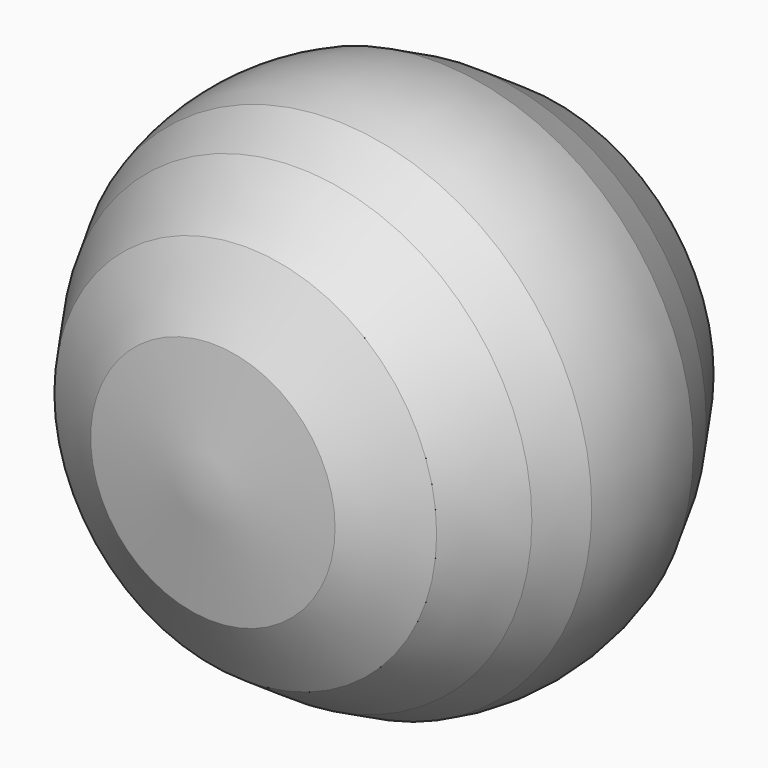
from build123d import *


with BuildPart() as f1:
    # F0 (on Top) → F1 (revolve)
    with BuildSketch(Plane.XY):
        Polygon((16.912684, 29.597197), (0, 31.75), (0, 0), (35.776827, 0), (35.776827, 8.781586), (32.524388, 15.069634), (26.453173, 23.959635), align=None)
        Polygon((35.776827, 0), (0, 0), (0, -31.75), (16.912684, -29.597197), (26.453173, -23.959635), (32.524388, -15.069634), (35.776827, -8.781586), align=None)
        with BuildLine():
            Line((35.776827, 8.781586), (35.776827, 0))
            Line((35.776827, 0), (35.776827, -8.781586))
            ThreePointArc((35.776827, -8.781586), (37.092955, 0), (35.776827, 8.781586))
        make_face()
    revolve(axis=Axis((0, 0, 0), (0, -1, 0)))


solid = f1.part
